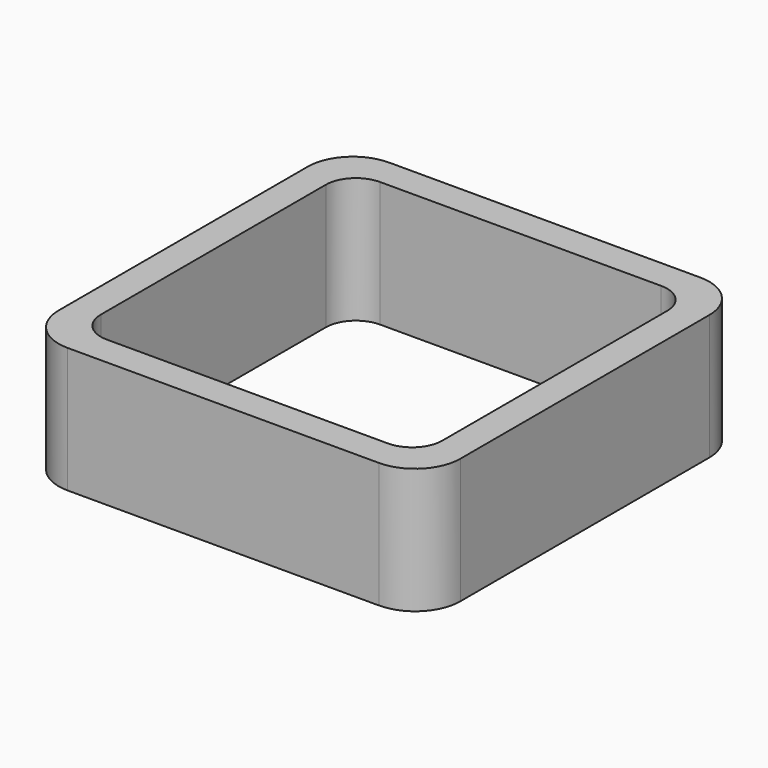
from build123d import *

# Parameters (mm, degrees)
EXTRUDE_DEPTH = 50


with BuildPart() as part:
    # Sketch → Extrude (new body)
    with BuildSketch(Plane.XY):
        with BuildLine():
            Line((-62, 80), (62, 80))
            ThreePointArc((80, 62), (74.727922, 74.727922), (62, 80))
            Line((80, 62), (80, -62))
            ThreePointArc((62, -80), (74.727922, -74.727922), (80, -62))
            Line((62, -80), (-62, -80))
            ThreePointArc((-80, -62), (-74.727922, -74.727922), (-62, -80))
            Line((-80, -62), (-80, 62))
            ThreePointArc((-62, 80), (-74.727922, 74.727922), (-80, 62))
        make_face()
        with BuildLine():
            Line((-56, 68), (56, 68))
            ThreePointArc((68, 56), (64.485281, 64.485281), (56, 68))
            Line((68, 56), (68, -56))
            ThreePointArc((56, -68), (64.485281, -64.485281), (68, -56))
            Line((56, -68), (-56, -68))
            ThreePointArc((-68, -56), (-64.485281, -64.485281), (-56, -68))
            Line((-68, -56), (-68, 56))
            ThreePointArc((-56, 68), (-64.485281, 64.485281), (-68, 56))
        make_face(mode=Mode.SUBTRACT)
    extrude(amount=EXTRUDE_DEPTH)


solid = part.part
